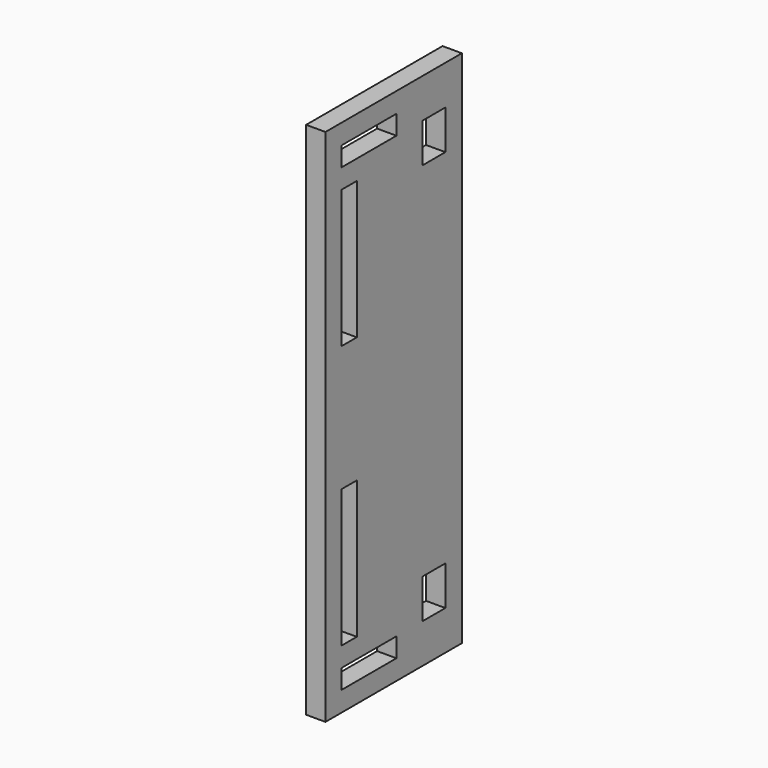
from build123d import *

# Parameters (mm, degrees)
F0_W     = 52
F0_H     = 158.4
F0_W_2   = 5.9
F0_H_2   = 42
F0_W_3   = 21
F0_H_3   = 5.9
F0_W_4   = 8.76
F0_H_4   = 12
F1_DEPTH = 5.9


with BuildPart() as f1:
    # F0 (on Right) → F1 (new body)
    with BuildSketch(Plane.YZ):
        Rectangle(F0_W, F0_H)
        with Locations((-17, -40.2)):
            Rectangle(F0_W_2, F0_H_2, mode=Mode.SUBTRACT)
        with Locations((-9.45, -70.15)):
            Rectangle(F0_W_3, F0_H_3, mode=Mode.SUBTRACT)
        with Locations((15.33, -61.2)):
            Rectangle(F0_W_4, F0_H_4, mode=Mode.SUBTRACT)
        with Locations((-17, 40.2)):
            Rectangle(F0_W_2, F0_H_2, mode=Mode.SUBTRACT)
        with Locations((-9.45, 70.15)):
            Rectangle(F0_W_3, F0_H_3, mode=Mode.SUBTRACT)
        with Locations((15.33, 61.2)):
            Rectangle(F0_W_4, F0_H_4, mode=Mode.SUBTRACT)
    extrude(amount=F1_DEPTH)


solid = f1.part
